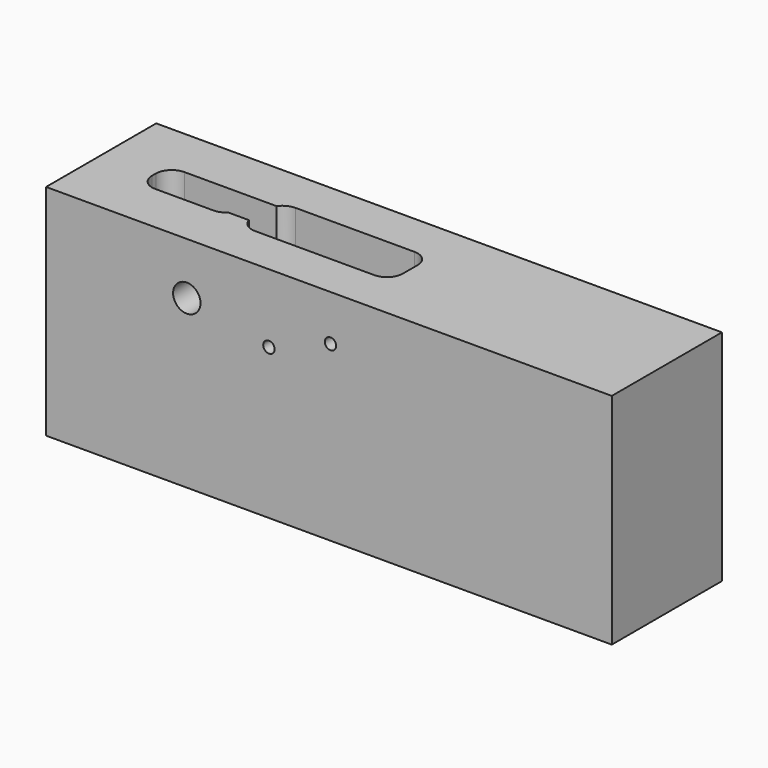
from build123d import *

# Parameters (mm, degrees)
F0_W     = 196.85
F0_H     = 47.9044
F1_DEPTH = 76.2
F2_R     = 4.7752
F2_R_2   = 1.9812
F3_DEPTH = 47.9054
F5_DEPTH = 31.7246
F7_DEPTH = 16.002
F9_DEPTH = 33.528


with BuildPart() as f1:
    # F0 (on Top) → F1 (new body)
    with BuildSketch(Plane.XY):
        with Locations((-0.5334, 0)):
            Rectangle(F0_W, F0_H)
    extrude(amount=-F1_DEPTH)

    # F2 (on face) → F3 (cut, through all)
    with BuildSketch(Plane.XZ.offset(23.9522)):
        with Locations((-49.9872, -18.1356)):
            Circle(F2_R)
        with Locations((-21.4122, -23.8506)):
            Circle(F2_R_2)
        with Locations((0, -15.875)):
            Circle(F2_R_2)
    extrude(amount=-F3_DEPTH, mode=Mode.SUBTRACT)

    # F4 (on face) → F5 (cut)
    with BuildSketch(Plane.XY):
        with BuildLine():
            ThreePointArc((8.6106, 3.2258), (6.988792, 7.141192), (3.0734, 8.763))
            Line((3.0734, 8.763), (-38.4048, 8.763))
            ThreePointArc((-38.4048, 8.763), (-40.989492, 8.122733), (-42.976447, 6.35))
            Line((-42.976447, 6.35), (-50.8762, 6.35))
            ThreePointArc((-50.8762, 6.35), (-52.702781, 6.040054), (-54.324875, 5.144915))
            ThreePointArc((-54.324875, 5.144915), (-55.864015, 3.217439), (-56.4134, 0.8128))
            Line((-56.4134, 0.8128), (-56.4134, 0.762))
            ThreePointArc((-56.4134, 0.762), (-54.791592, -3.153392), (-50.8762, -4.7752))
            Line((-50.8762, -4.7752), (-43.720808, -4.7752))
            ThreePointArc((-43.720808, -4.7752), (-41.727543, -7.655242), (-38.4048, -8.763))
            Line((-38.4048, -8.763), (3.0734, -8.763))
            ThreePointArc((3.0734, -8.763), (6.988792, -7.141192), (8.6106, -3.2258))
            Line((8.6106, -3.2258), (8.6106, 3.2258))
        make_face()
    extrude(amount=-F5_DEPTH, mode=Mode.SUBTRACT)

    # F6 (on face) → F7 (cut)
    with BuildSketch(Plane.XY):
        with BuildLine():
            Line((-49.2252, 6.35), (-75.057, 6.35))
            ThreePointArc((-75.057, 6.35), (-78.972392, 4.728192), (-80.5942, 0.8128))
            Line((-80.5942, 0.8128), (-80.5942, -0.8128))
            ThreePointArc((-80.5942, -0.8128), (-78.972392, -4.728192), (-75.057, -6.35))
            Line((-75.057, -6.35), (-54.7624, -6.35))
            ThreePointArc((-54.7624, -6.35), (-50.847008, -4.728192), (-49.2252, -0.8128))
            Line((-49.2252, -0.8128), (-49.2252, 6.35))
        make_face()
    extrude(amount=-F7_DEPTH, mode=Mode.SUBTRACT)

    # F8 (on face) → F9 (cut)
    with BuildSketch(Plane.XY):
        with BuildLine():
            Line((-12.1666, 3.9624), (-21.5138, 3.9624))
            ThreePointArc((-21.5138, 3.9624), (-24.31564, 2.80184), (-25.4762, 0))
            ThreePointArc((-25.4762, 0), (-24.31564, -2.80184), (-21.5138, -3.9624))
            Line((-21.5138, -3.9624), (-12.1666, -3.9624))
            ThreePointArc((-12.1666, -3.9624), (-9.36476, -2.80184), (-8.2042, 0))
            ThreePointArc((-8.2042, 0), (-9.36476, 2.80184), (-12.1666, 3.9624))
        make_face()
    extrude(amount=-F9_DEPTH, mode=Mode.SUBTRACT)


solid = f1.part
